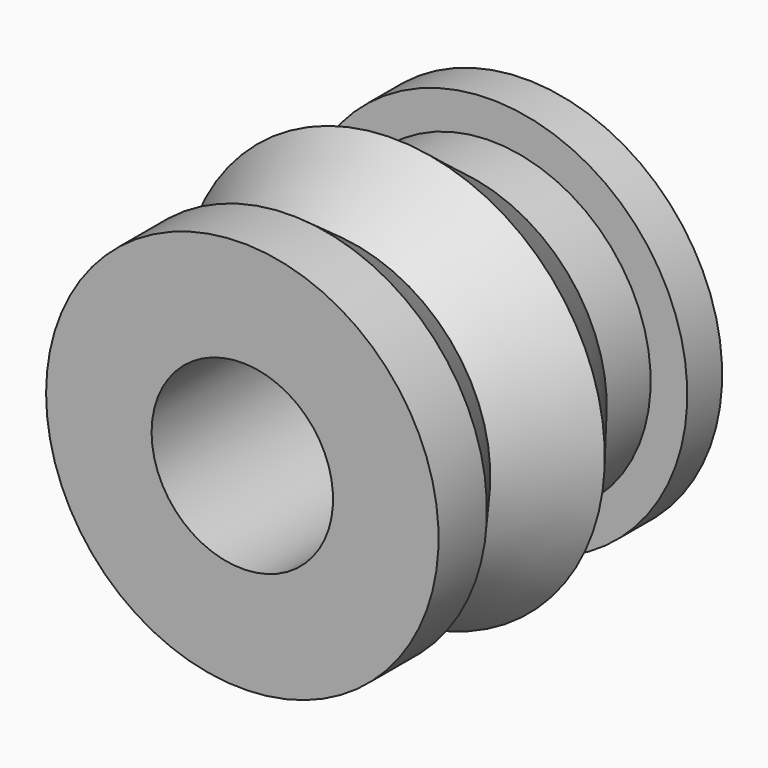
from build123d import *


with BuildPart() as f1:
    # F0 (on Top) → F1 (revolve)
    with BuildSketch(Plane.XY):
        Polygon((-27.160231, -50.109565), (-27.160231, 54.741543), (-46.109226, 64.005494), (-58.741894, 56.004807), (-58.741894, 42.951055), (-47.793582, 42.951055), (-47.793582, 26.528593), (-63.373871, 6.316332), (-48.635762, -18.106818), (-58.741894, -32.002747), (-58.741894, -50.109565), align=None)
    revolve(axis=Axis((0, 4.842522, 0), (0, -1, 0)))


solid = f1.part
